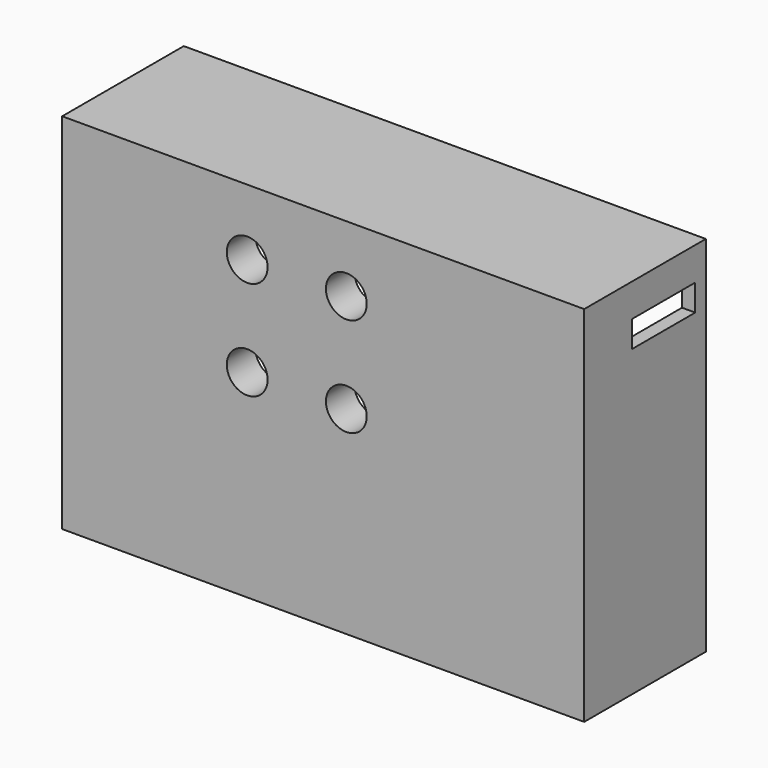
from build123d import *

# Parameters (mm, degrees)
F0_W     = 79
F0_H     = 55
F1_DEPTH = 23
F2_W     = 75
F2_H     = 51
F3_DEPTH = 16
F4_W     = 12
F4_H     = 4
F5_DEPTH = 55
F6_R     = 3.0875
F7_DEPTH = 25
F8_R     = 5.9215
F9_DEPTH = 1.6


with BuildPart() as f1:
    # F0 (on Front) → F1 (new body)
    with BuildSketch(Plane.XZ):
        Rectangle(F0_W, F0_H)
    extrude(amount=F1_DEPTH)

    # F2 (on face) → F3 (cut)
    with BuildSketch(Plane(origin=(0, 0, 0), x_dir=(-1, 0, 0), z_dir=(0, 1, 0))):
        Rectangle(F2_W, F2_H)
    extrude(amount=-F3_DEPTH, mode=Mode.SUBTRACT)

    # F4 (on Right) → F5 (cut)
    with BuildSketch(Plane.YZ):
        with Locations((-8, 20.5)):
            Rectangle(F4_W, F4_H)
    extrude(amount=F5_DEPTH, mode=Mode.SUBTRACT)

    # F6 (on Front) → F7 (cut)
    with BuildSketch(Plane.XZ):
        with Locations((-11.5, 17.5)):
            Circle(F6_R)
        with Locations((-11.5, 2.5)):
            Circle(F6_R)
        with Locations((3.5, 2.5)):
            Circle(F6_R)
        with Locations((3.5, 17.5)):
            Circle(F6_R)
    extrude(amount=F7_DEPTH, mode=Mode.SUBTRACT)

    # F8 (on face) → F9 (cut)
    with BuildSketch(Plane(origin=(0, -16, 0), x_dir=(-1, 0, 0), z_dir=(0, 1, 0))):
        with Locations((-3.5, 17.5)):
            Circle(F8_R)
        with Locations((-3.5, 2.5)):
            Circle(F8_R)
        with Locations((11.5, 2.5)):
            Circle(F8_R)
        with Locations((11.5, 17.5)):
            Circle(F8_R)
    extrude(amount=-F9_DEPTH, mode=Mode.SUBTRACT)


solid = f1.part
